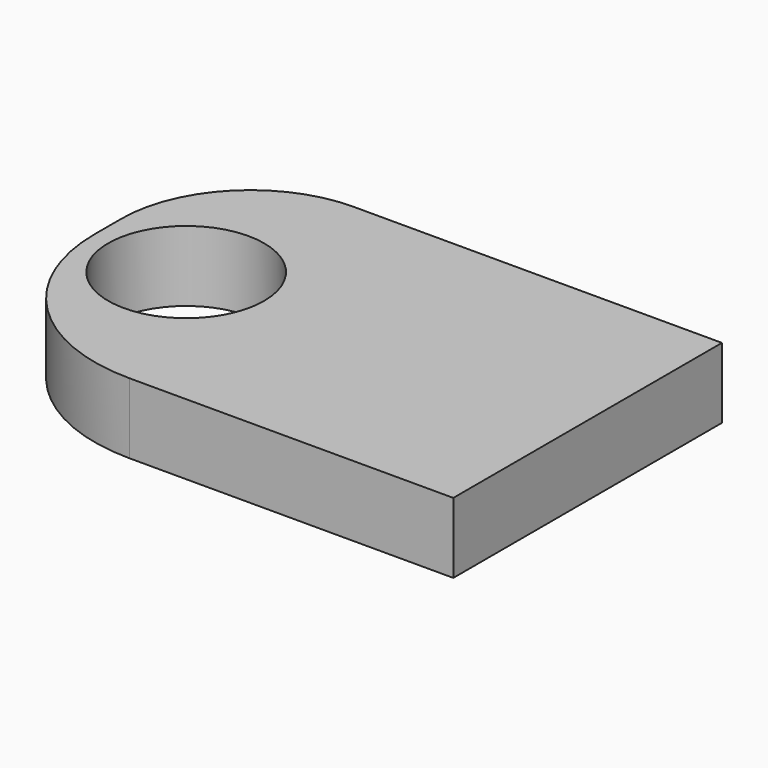
from build123d import *

# Parameters (mm, degrees)
F1_DEPTH = 17.526
F2_R     = 19.408458
F3_DEPTH = 17.527


with BuildPart() as f1:
    # F0 (on Top) → F1 (new body)
    with BuildSketch(Plane.XY):
        with BuildLine():
            Line((61.856396, -41.764345), (61.856396, 41.764345))
            Line((61.856396, 41.764345), (-29.76739, 41.764345))
            ThreePointArc((-29.76739, 41.764345), (-52.457744, 32.365693), (-61.856396, 9.675339))
            Line((-61.856396, 9.675339), (-61.856396, 1.365276))
            ThreePointArc((-61.856396, 1.365276), (-49.224023, -29.131971), (-18.726775, -41.764345))
            Line((-18.726775, -41.764345), (61.856396, -41.764345))
        make_face()
    extrude(amount=F1_DEPTH)

    # F2 (on face) → F3 (cut, through all)
    with BuildSketch(Plane.XY.offset(17.526)):
        with Locations((-38.015205, 0)):
            Circle(F2_R)
    extrude(amount=-F3_DEPTH, mode=Mode.SUBTRACT)


solid = f1.part
